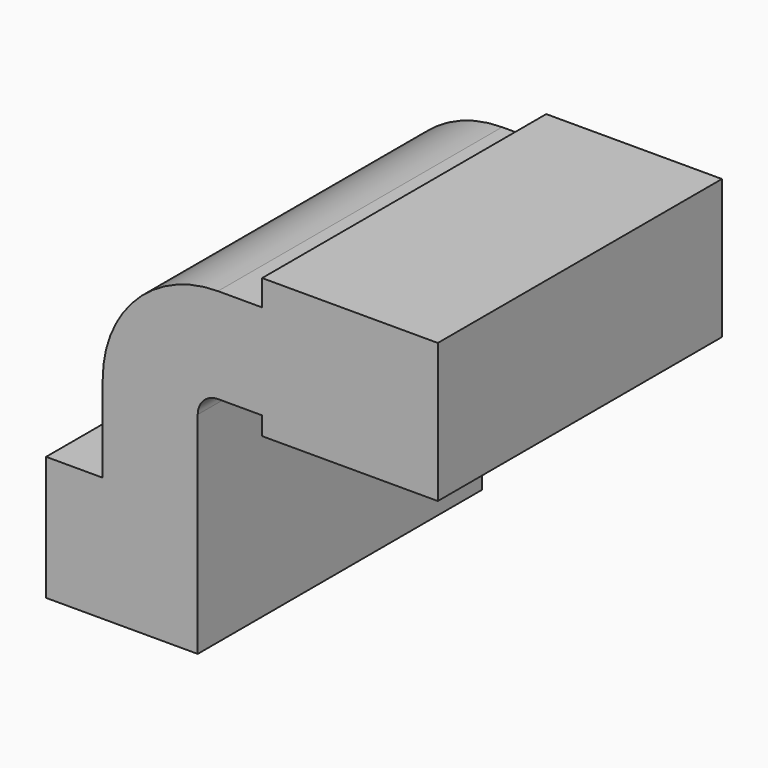
from build123d import *

# Parameters (mm, degrees)
F1_DEPTH = 63.5


with BuildPart() as f1:
    # F0 (on Front) → F1 (new body, symmetric)
    with BuildSketch(Plane.XZ):
        Polygon((27.115665, -22.212081), (27.115665, 22.212081), (-6.859978, 22.212081), (-27.115665, 22.212081), (-27.115665, -22.212081), align=None)
        with BuildLine():
            Line((-6.859978, 22.212081), (27.115665, 22.212081))
            Line((27.115665, 22.212081), (27.115665, 53.146176))
            ThreePointArc((27.115665, 53.146176), (29.237632, 58.269058), (34.360514, 60.391025))
            Line((34.360514, 60.391025), (50.153948, 60.391025))
            Line((50.153948, 60.391025), (50.153948, 94.366668))
            Line((50.153948, 94.366668), (34.360514, 94.366668))
            ThreePointArc((34.360514, 94.366668), (5.213225, 82.293465), (-6.859978, 53.146176))
            Line((-6.859978, 53.146176), (-6.859978, 22.212081))
        make_face()
        Polygon((50.153948, 94.366668), (50.153948, 60.391025), (50.153948, 53.843938), (112.985604, 53.843938), (112.985604, 103.617601), (50.153948, 103.617601), align=None)
    extrude(amount=F1_DEPTH, both=True)


solid = f1.part
